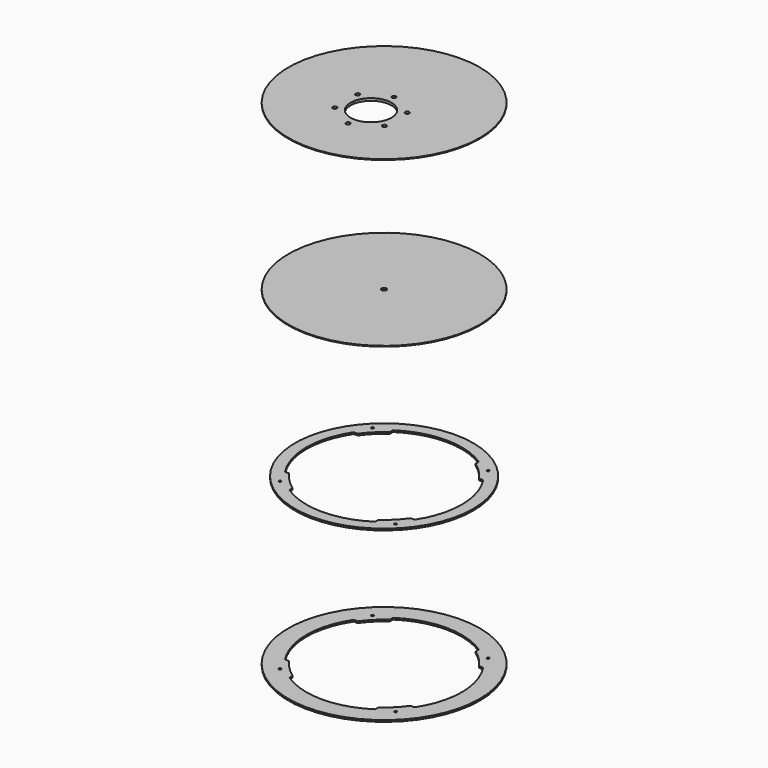
from build123d import *

# Parameters (mm, degrees)
F0_R      = 2.5
F1_DEPTH  = 1
F2_R      = 45
F2_R_2    = 2.5
F2_R_3    = 25
F3_DEPTH  = 2
F5_R      = 117
F5_R_2    = 3
F6_DEPTH  = 1
F8_R      = 109
F8_R_2    = 1.5
F9_DEPTH  = 2
F11_R     = 117
F11_R_2   = 1.5
F12_DEPTH = 2


with BuildPart() as f1:
    # F0 (on Top) → F1 (new body)
    with BuildSketch(Plane.XY):
        with BuildLine():
            ThreePointArc((0, -117), (82.7314933988, -82.7314933988), (117, 0))
            ThreePointArc((117, 0), (82.7314933988, 82.7314933988), (0, 117))
            Line((0, 117), (0, 17.5))
            ThreePointArc((0, 17.5), (1.767766953, 16.767766953), (2.5, 15))
            ThreePointArc((2.5, 15), (1.767766953, 13.232233047), (0, 12.5))
            Line((0, 12.5), (0, 5))
            ThreePointArc((0, 5), (17.6776695297, -2.3223304703), (25, -20))
            ThreePointArc((25, -20), (17.6776695297, -37.6776695297), (0, -45))
            Line((0, -45), (0, -52.5))
            ThreePointArc((0, -52.5), (1.767766953, -53.232233047), (2.5, -55))
            ThreePointArc((2.5, -55), (1.767766953, -56.767766953), (0, -57.5))
            Line((0, -57.5), (0, -117))
        make_face()
        with Locations((30.3108891325, -37.5)):
            Circle(F0_R, mode=Mode.SUBTRACT)
        with Locations((30.3108891325, -2.5)):
            Circle(F0_R, mode=Mode.SUBTRACT)
        with BuildLine():
            Line((0, 17.5), (0, 117))
            ThreePointArc((0, 117), (-117, 0), (0, -117))
            Line((0, -117), (0, -57.5))
            ThreePointArc((0, -57.5), (-2.5, -55), (0, -52.5))
            Line((0, -52.5), (0, -45))
            ThreePointArc((0, -45), (-25, -20), (0, 5))
            Line((0, 5), (0, 12.5))
            ThreePointArc((0, 12.5), (-2.5, 15), (0, 17.5))
        make_face()
        with Locations((-30.3108891325, -37.5)):
            Circle(F0_R, mode=Mode.SUBTRACT)
        with Locations((-30.3108891325, -2.5)):
            Circle(F0_R, mode=Mode.SUBTRACT)
        with BuildLine():
            ThreePointArc((0, -117), (82.7314933988, -82.7314933988), (117, 0))
            ThreePointArc((117, 0), (82.7314933988, 82.7314933988), (0, 117))
            Line((0, 117), (0, 17.5))
            ThreePointArc((0, 17.5), (1.767766953, 16.767766953), (2.5, 15))
            ThreePointArc((2.5, 15), (1.767766953, 13.232233047), (0, 12.5))
            Line((0, 12.5), (0, 5))
            ThreePointArc((0, 5), (17.6776695297, -2.3223304703), (25, -20))
            ThreePointArc((25, -20), (17.6776695297, -37.6776695297), (0, -45))
            Line((0, -45), (0, -52.5))
            ThreePointArc((0, -52.5), (1.767766953, -53.232233047), (2.5, -55))
            ThreePointArc((2.5, -55), (1.767766953, -56.767766953), (0, -57.5))
            Line((0, -57.5), (0, -117))
        make_face()
        with Locations((30.3108891325, -37.5)):
            Circle(F0_R, mode=Mode.SUBTRACT)
        with Locations((30.3108891325, -2.5)):
            Circle(F0_R, mode=Mode.SUBTRACT)
    extrude(amount=F1_DEPTH)


with BuildPart() as f3:
    # F2 (on face) → F3 (new body)
    with BuildSketch(Plane(origin=(0, 0, 0), x_dir=(1, 0, 0), z_dir=(0, 0, -1))):
        with Locations((0, 20)):
            Circle(F2_R)
        with Locations((-30.3108891325, 2.5)):
            Circle(F2_R_2, mode=Mode.SUBTRACT)
        with Locations((0, -15)):
            Circle(F2_R_2, mode=Mode.SUBTRACT)
        with Locations((30.3108891325, 2.5)):
            Circle(F2_R_2, mode=Mode.SUBTRACT)
        with Locations((-30.3108891325, 37.5)):
            Circle(F2_R_2, mode=Mode.SUBTRACT)
        with Locations((0, 20)):
            Circle(F2_R_3, mode=Mode.SUBTRACT)
        with Locations((30.3108891325, 37.5)):
            Circle(F2_R_2, mode=Mode.SUBTRACT)
        with Locations((0, 55)):
            Circle(F2_R_2, mode=Mode.SUBTRACT)
        with Locations((0, 20)):
            Circle(F2_R)
        with Locations((0, -15)):
            Circle(F2_R_2, mode=Mode.SUBTRACT)
        with Locations((-30.3108891325, 2.5)):
            Circle(F2_R_2, mode=Mode.SUBTRACT)
        with Locations((-30.3108891325, 37.5)):
            Circle(F2_R_2, mode=Mode.SUBTRACT)
        with Locations((0, 20)):
            Circle(F2_R_3, mode=Mode.SUBTRACT)
        with Locations((30.3108891325, 2.5)):
            Circle(F2_R_2, mode=Mode.SUBTRACT)
        with Locations((0, 55)):
            Circle(F2_R_2, mode=Mode.SUBTRACT)
        with Locations((30.3108891325, 37.5)):
            Circle(F2_R_2, mode=Mode.SUBTRACT)
    extrude(amount=F3_DEPTH)


with BuildPart() as f6:
    # F5 (on offset) → F6 (new body)
    with BuildSketch(Plane(origin=(0, 0, -200), x_dir=(1, 0, 0), z_dir=(0, 0, -1))):
        Circle(F5_R)
        Circle(F5_R_2, mode=Mode.SUBTRACT)
        Circle(F5_R)
        Circle(F5_R_2, mode=Mode.SUBTRACT)
    extrude(amount=F6_DEPTH)


with BuildPart() as f9:
    # F8 (on offset) → F9 (new body)
    with BuildSketch(Plane(origin=(0, 0, -401), x_dir=(1, 0, 0), z_dir=(0, 0, -1))):
        Circle(F8_R)
        with Locations((-70.7106781187, -70.7106781187)):
            Circle(F8_R_2, mode=Mode.SUBTRACT)
        with Locations((70.7106781187, -70.7106781187)):
            Circle(F8_R_2, mode=Mode.SUBTRACT)
        with Locations((-70.7106781187, 70.7106781187)):
            Circle(F8_R_2, mode=Mode.SUBTRACT)
        with BuildLine():
            ThreePointArc((-52.5, -74.3286620356), (-64.346717088, -64.346717088), (-74.3286620356, -52.5))
            Line((-74.3286620356, -52.5), (-79.1754381106, -52.5))
            ThreePointArc((-79.1754381106, -52.5), (-95, 0), (-79.1754381106, 52.5))
            Line((-79.1754381106, 52.5), (-74.3286620356, 52.5))
            ThreePointArc((-74.3286620356, 52.5), (-64.346717088, 64.346717088), (-52.5, 74.3286620356))
            Line((-52.5, 74.3286620356), (-52.5, 79.1754381106))
            ThreePointArc((-52.5, 79.1754381106), (0, 95), (52.5, 79.1754381106))
            Line((52.5, 79.1754381106), (52.5, 74.3286620356))
            ThreePointArc((52.5, 74.3286620356), (64.346717088, 64.346717088), (74.3286620356, 52.5))
            Line((74.3286620356, 52.5), (79.1754381106, 52.5))
            ThreePointArc((79.1754381106, 52.5), (95, 0), (79.1754381106, -52.5))
            Line((79.1754381106, -52.5), (74.3286620356, -52.5))
            ThreePointArc((74.3286620356, -52.5), (64.346717088, -64.346717088), (52.5, -74.3286620356))
            Line((52.5, -74.3286620356), (52.5, -79.1754381106))
            ThreePointArc((52.5, -79.1754381106), (0, -95), (-52.5, -79.1754381106))
            Line((-52.5, -79.1754381106), (-52.5, -74.3286620356))
        make_face(mode=Mode.SUBTRACT)
        with Locations((70.7106781187, 70.7106781187)):
            Circle(F8_R_2, mode=Mode.SUBTRACT)
    extrude(amount=F9_DEPTH)


with BuildPart() as f12:
    # F11 (on offset) → F12 (new body)
    with BuildSketch(Plane(origin=(0, 0, -603), x_dir=(1, 0, 0), z_dir=(0, 0, -1))):
        Circle(F11_R)
        with Locations((-70.7106781187, -70.7106781187)):
            Circle(F11_R_2, mode=Mode.SUBTRACT)
        with Locations((70.7106781187, -70.7106781187)):
            Circle(F11_R_2, mode=Mode.SUBTRACT)
        with Locations((-70.7106781187, 70.7106781187)):
            Circle(F11_R_2, mode=Mode.SUBTRACT)
        with BuildLine():
            ThreePointArc((-79.1754381106, -52.5), (-95, 0), (-79.1754381106, 52.5))
            Line((-79.1754381106, 52.5), (-74.3286620356, 52.5))
            ThreePointArc((-74.3286620356, 52.5), (-64.346717088, 64.346717088), (-52.5, 74.3286620356))
            Line((-52.5, 74.3286620356), (-52.5, 79.1754381106))
            ThreePointArc((-52.5, 79.1754381106), (0, 95), (52.5, 79.1754381106))
            Line((52.5, 79.1754381106), (52.5, 74.3286620356))
            ThreePointArc((52.5, 74.3286620356), (64.346717088, 64.346717088), (74.3286620356, 52.5))
            Line((74.3286620356, 52.5), (79.1754381106, 52.5))
            ThreePointArc((79.1754381106, 52.5), (95, 0), (79.1754381106, -52.5))
            Line((79.1754381106, -52.5), (74.3286620356, -52.5))
            ThreePointArc((74.3286620356, -52.5), (64.346717088, -64.346717088), (52.5, -74.3286620356))
            Line((52.5, -74.3286620356), (52.5, -79.1754381106))
            ThreePointArc((52.5, -79.1754381106), (0, -95), (-52.5, -79.1754381106))
            Line((-52.5, -79.1754381106), (-52.5, -74.3286620356))
            ThreePointArc((-52.5, -74.3286620356), (-64.346717088, -64.346717088), (-74.3286620356, -52.5))
            Line((-74.3286620356, -52.5), (-79.1754381106, -52.5))
        make_face(mode=Mode.SUBTRACT)
        with Locations((70.7106781187, 70.7106781187)):
            Circle(F11_R_2, mode=Mode.SUBTRACT)
    extrude(amount=F12_DEPTH)


solid = Compound([f1.part, f3.part, f6.part, f9.part, f12.part])
